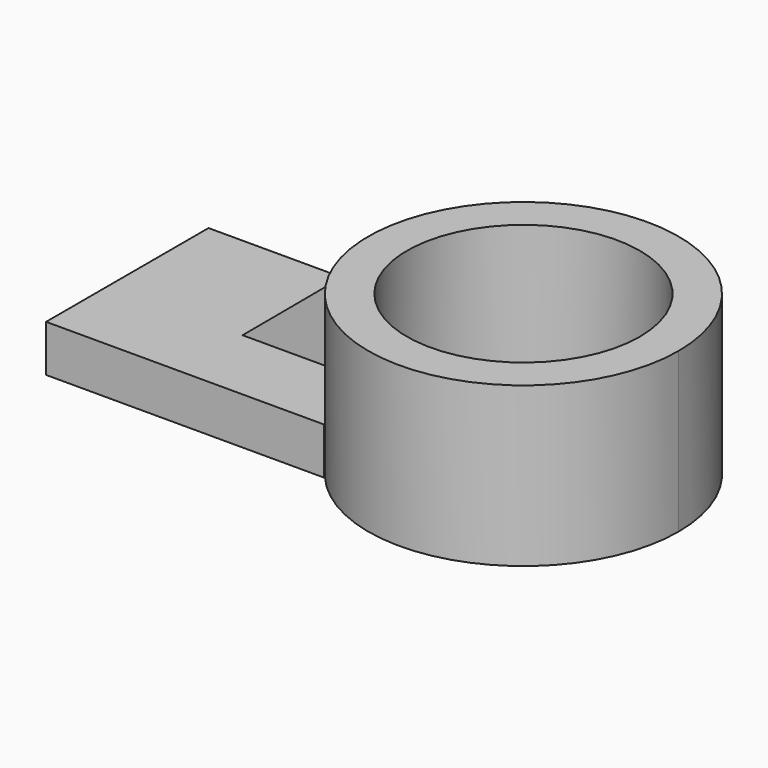
from build123d import *

# Parameters (mm, degrees)
F1_DEPTH = 12.7
F0_R     = 31.61033
F2_DEPTH = 43.18
F4_DEPTH = 6.35


with BuildPart() as f1:
    # F0 (on Top) → F1 (new body)
    with BuildSketch(Plane.XY):
        with BuildLine():
            Line((-32.126933, 27.557764), (-107.518122, 27.557764))
            Line((-107.518122, 27.557764), (-107.518122, -27.557764))
            Line((-107.518122, -27.557764), (-32.126933, -27.557764))
            Line((-32.126933, -27.557764), (-32.126933, -27.209316))
            ThreePointArc((-32.126933, -27.209316), (-42.100911, 0), (-32.126933, 27.209316))
            Line((-32.126933, 27.209316), (-32.126933, 27.557764))
        make_face()
    extrude(amount=F1_DEPTH)

    # F0 (on Top) → F2 (join)
    with BuildSketch(Plane.XY):
        with BuildLine():
            ThreePointArc((42.100911, 0), (14.489886, 39.52885), (-32.126933, 27.209316))
            ThreePointArc((-32.126933, 27.209316), (-42.100911, 0), (-32.126933, -27.209316))
            ThreePointArc((-32.126933, -27.209316), (14.489886, -39.52885), (42.100911, 0))
        make_face()
        Circle(F0_R, mode=Mode.SUBTRACT)
    extrude(amount=F2_DEPTH)

    # F3 (on Front) → F4 (join, symmetric)
    with BuildSketch(Plane.XZ):
        Polygon((-41.93845, 10.919823), (-41.93845, 37.190702), (-73.273592, 10.919823), align=None)
    extrude(amount=F4_DEPTH, both=True)


solid = f1.part
